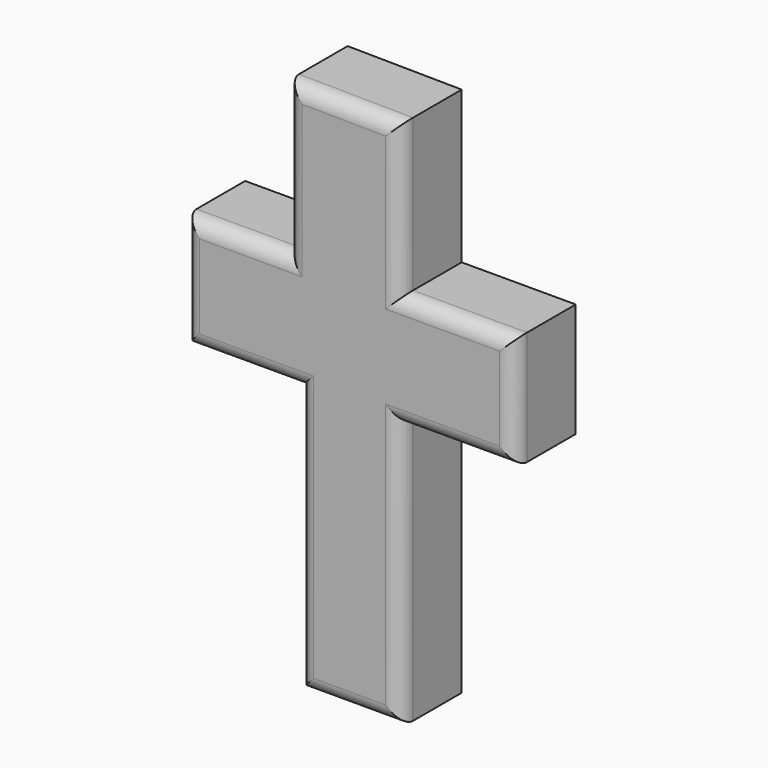
from build123d import *

# Parameters (mm, degrees)
F1_DEPTH = 10
F2_R     = 2


with BuildPart() as f1:
    # F0 (on Front) → F1 (new body)
    with BuildSketch(Plane.XZ):
        Polygon((0, 26.158135), (-15, 26.317666), (-15, 6.317666), (-28.478333, 6.317666), (-28.478333, -8.682334), (-13.478333, -8.682334), (-13.478333, -43.682334), (0, -43.682334), (0, -8.841865), (15, -8.841865), (15, 6.158135), (0, 6.158135), align=None)
    extrude(amount=F1_DEPTH)

    # F2
    f2_edges = [f1.edges().sort_by_distance(p)[0] for p in [
        (-7.5, -10, 26.237901),
        (-15, -10, 16.317666),
        (-21.739167, -10, 6.317666),
        (-28.478333, -10, -1.182334),
        (-20.978333, -10, -8.682334),
        (-13.478333, -10, -26.182334),
        (-6.739167, -10, -43.682334),
        (0, -10, -26.262099),
        (7.5, -10, -8.841865),
        (15, -10, -1.341865),
        (7.5, -10, 6.158135),
        (0, -10, 16.158135),
    ]]
    fillet(f2_edges, radius=F2_R)


solid = f1.part
